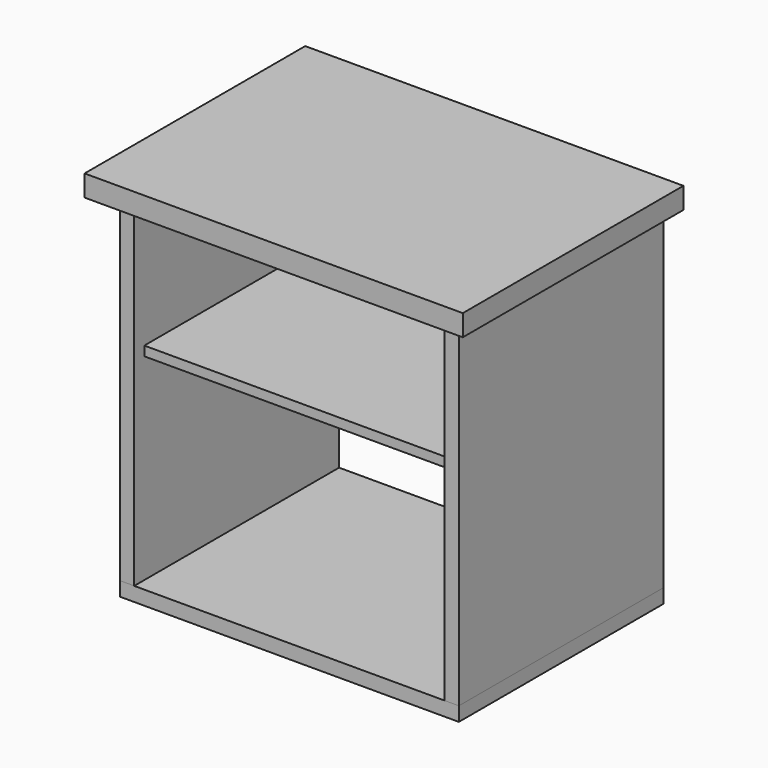
from build123d import *

# Parameters (mm, degrees)
F0_W     = 430
F0_H     = 325
F1_DEPTH = 18
F2_W     = 325
F2_H     = 430
F3_DEPTH = 18
F5_W     = 480
F5_H     = 350
F6_DEPTH = 27
F8_W     = 394
F8_H     = 309
F9_DEPTH = 12


with BuildPart() as f1:
    # F0 (on Top) → F1 (new body)
    with BuildSketch(Plane.XY):
        Rectangle(F0_W, F0_H)
    extrude(amount=F1_DEPTH)


with BuildPart() as f3:
    # F2 (on face) → F3 (new body)
    with BuildSketch(Plane.YZ.offset(215)):
        with Locations((0, 233)):
            Rectangle(F2_W, F2_H)
    extrude(amount=-F3_DEPTH)


with BuildPart() as f4_1:
    # F4: instance of F3
    add(f3.part.mirror(Plane.YZ))


with BuildPart() as f6:
    # F5 (on face) → F6 (new body)
    with BuildSketch(Plane.XY.offset(448)):
        with Locations((0, -12.5)):
            Rectangle(F5_W, F5_H)
    extrude(amount=F6_DEPTH)


with BuildPart() as f9:
    # F8 (on offset) → F9 (new body)
    with BuildSketch(Plane.XY.offset(268)):
        with Locations((0, 8)):
            Rectangle(F8_W, F8_H)
    extrude(amount=F9_DEPTH)


solid = Compound([f1.part, f3.part, f4_1.part, f6.part, f9.part])
